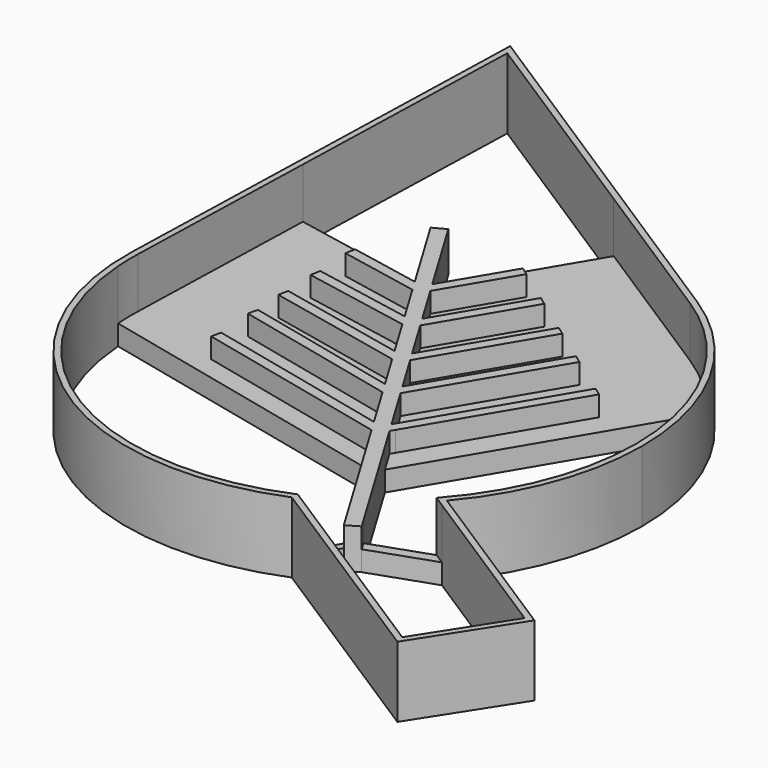
from build123d import *

# Parameters (mm, degrees)
F1_DEPTH = 8.89
F2_DEPTH = 5.08
F3_DEPTH = 2.54


with BuildPart() as f1:
    # F0 (on Top) → F1 (new body)
    with BuildSketch(Plane.XY):
        with BuildLine():
            Line((21.332066, 26.463705), (-27.061316, 57.515545))
            Line((-27.061316, 57.515545), (-28.724159, 0.040585))
            ThreePointArc((-28.724159, 0.040585), (-14.685947, -27.662523), (16.197077, -30.944668))
            Line((16.197077, -30.944668), (43.515381, -48.467725))
            Line((43.515381, -48.467725), (51.195109, -36.495092))
            Line((51.195109, -36.495092), (28.540187, -21.963315))
            ThreePointArc((28.540187, -21.963315), (34.288342, -12.121049), (36.286243, -0.899646))
            ThreePointArc((36.286243, -0.899646), (32.30379, 14.691861), (21.332066, 26.463705))
        make_face()
        with BuildLine():
            Line((-27.236827, 25.100127), (-26.338607, 56.146439))
            Line((-26.338607, 56.146439), (1.208299, 38.470838))
            Line((1.208299, 38.470838), (20.920554, 25.822377))
            ThreePointArc((20.920554, 25.822377), (25.459016, 22.291583), (29.286224, 18.000124))
            ThreePointArc((29.286224, 18.000124), (33.924433, 9.051663), (35.524243, -0.899646))
            ThreePointArc((35.524243, -0.899646), (33.419565, -12.267027), (27.384567, -22.127343))
            Line((27.384567, -22.127343), (28.75755, -23.008029))
            Line((28.75755, -23.008029), (50.142303, -36.725069))
            Line((50.142303, -36.725069), (43.285403, -47.41492))
            Line((43.285403, -47.41492), (17.059054, -30.592287))
            Line((17.059054, -30.592287), (16.271061, -30.086836))
            ThreePointArc((16.271061, -30.086836), (-12.750558, -28.010409), (-27.894731, -3.166497))
            ThreePointArc((-27.894731, -3.166497), (-27.968577, -1.574824), (-27.962478, 0.018549))
            Line((-27.962478, 0.018549), (-27.236827, 25.100127))
        make_face(mode=Mode.SUBTRACT)
    extrude(amount=F1_DEPTH)



with BuildPart() as f2:
    # F0 (on Top) → F2 (new body)
    with BuildSketch(Plane.XY):
        Polygon((-13.605105, 28.150606), (-9.713301, 21.672324), (-7.614988, 18.17948), (-6.73406, 16.713091), (-3.785167, 11.804375), (-2.909715, 10.347101), (0.050701, 5.419203), (0.94598, 3.928926), (3.701448, -0.657816), (4.610738, -2.171416), (7.88597, -7.623355), (8.79526, -9.136955), (10.545028, -12.049613), (18.781333, -25.759736), (19.331383, -26.675345), (20.855503, -25.759736), (20.180433, -24.636017), (12.044667, -11.093252), (10.296888, -8.183906), (9.553734, -6.946853), (6.119241, -1.22981), (5.376086, 0.007243), (2.464367, 4.85408), (1.721212, 6.091132), (-1.380529, 11.254279), (-2.123684, 12.491331), (-5.198242, 17.609229), (-5.941397, 18.846282), (-8.196821, 22.600652), (-12.036798, 28.992664), align=None)
        Polygon((-1.081142, 27.047468), (-5.941397, 18.846282), (-5.198242, 17.609229), (-0.046492, 26.302285), align=None)
        Polygon((4.234035, 23.219336), (-2.123684, 12.491331), (-1.380529, 11.254279), (5.268685, 22.474153), align=None)
        Polygon((9.587057, 19.363947), (1.721212, 6.091132), (2.464367, 4.85408), (10.621708, 18.618764), align=None)
        Polygon((5.376086, 0.007243), (6.119241, -1.22981), (15.710174, 14.953916), (14.675524, 15.699099), align=None)
        Polygon((9.553734, -6.946853), (10.296888, -8.183906), (10.629086, -7.623355), (21.526467, 10.764868), (20.491817, 11.510051), align=None)
        Polygon((-6.73406, 16.713091), (-7.614988, 18.17948), (-16.500566, 19.917602), (-16.744372, 18.671223), (-6.954169, 16.756147), align=None)
        Polygon((-2.909715, 10.347101), (-3.785167, 11.804375), (-16.291279, 14.160487), (-16.526407, 12.912442), align=None)
        Polygon((0.94598, 3.928926), (0.050701, 5.419203), (-16.099113, 8.874321), (-16.364806, 7.632425), (0.701064, 3.981324), align=None)
        Polygon((4.342513, -2.109431), (4.610738, -2.171416), (3.701448, -0.657816), (-15.917408, 3.875942), (-16.203358, 2.638553), align=None)
        Polygon((-15.983448, -3.410797), (8.79526, -9.136955), (7.88597, -7.623355), (-15.697497, -2.173408), align=None)
    extrude(amount=F2_DEPTH)


with BuildPart() as f1_1:
    add(f1.part)

    add(f2.part)  # F3 merges F2
    # F0 (on Top) → F3 (join)
    with BuildSketch(Plane.XY):
        with BuildLine():
            Line((20.920554, 25.822377), (1.208299, 38.470838))
            Line((1.208299, 38.470838), (-8.196821, 22.600652))
            Line((-8.196821, 22.600652), (-5.941397, 18.846282))
            Line((-5.941397, 18.846282), (-1.081142, 27.047468))
            Line((-1.081142, 27.047468), (-0.046492, 26.302285))
            Line((-0.046492, 26.302285), (-5.198242, 17.609229))
            Line((-5.198242, 17.609229), (-2.123684, 12.491331))
            Line((-2.123684, 12.491331), (4.234035, 23.219336))
            Line((4.234035, 23.219336), (5.268685, 22.474153))
            Line((5.268685, 22.474153), (-1.380529, 11.254279))
            Line((-1.380529, 11.254279), (1.721212, 6.091132))
            Line((1.721212, 6.091132), (9.587057, 19.363947))
            Line((9.587057, 19.363947), (10.621708, 18.618764))
            Line((10.621708, 18.618764), (2.464367, 4.85408))
            Line((2.464367, 4.85408), (5.376086, 0.007243))
            Line((5.376086, 0.007243), (14.675524, 15.699099))
            Line((14.675524, 15.699099), (15.710174, 14.953916))
            Line((15.710174, 14.953916), (6.119241, -1.22981))
            Line((6.119241, -1.22981), (9.553734, -6.946853))
            Line((9.553734, -6.946853), (20.491817, 11.510051))
            Line((20.491817, 11.510051), (21.526467, 10.764868))
            Line((21.526467, 10.764868), (10.629086, -7.623355))
            Line((10.629086, -7.623355), (10.296888, -8.183906))
            Line((10.296888, -8.183906), (12.044667, -11.093252))
            Line((12.044667, -11.093252), (29.286224, 18.000124))
            ThreePointArc((29.286224, 18.000124), (25.459016, 22.291583), (20.920554, 25.822377))
        make_face()
        with BuildLine():
            Line((-9.713301, 21.672324), (-27.236827, 25.100127))
            Line((-27.236827, 25.100127), (-27.962478, 0.018549))
            ThreePointArc((-27.962478, 0.018549), (-27.968577, -1.574824), (-27.894731, -3.166497))
            Line((-27.894731, -3.166497), (10.545028, -12.049613))
            Line((10.545028, -12.049613), (8.79526, -9.136955))
            Line((8.79526, -9.136955), (-15.983448, -3.410797))
            Line((-15.983448, -3.410797), (-15.697497, -2.173408))
            Line((-15.697497, -2.173408), (7.88597, -7.623355))
            Line((7.88597, -7.623355), (4.610738, -2.171416))
            Line((4.610738, -2.171416), (4.342513, -2.109431))
            Line((4.342513, -2.109431), (-16.203358, 2.638553))
            Line((-16.203358, 2.638553), (-15.917408, 3.875942))
            Line((-15.917408, 3.875942), (3.701448, -0.657816))
            Line((3.701448, -0.657816), (0.94598, 3.928926))
            Line((0.94598, 3.928926), (0.701064, 3.981324))
            Line((0.701064, 3.981324), (-16.364806, 7.632425))
            Line((-16.364806, 7.632425), (-16.099113, 8.874321))
            Line((-16.099113, 8.874321), (0.050701, 5.419203))
            Line((0.050701, 5.419203), (-2.909715, 10.347101))
            Line((-2.909715, 10.347101), (-16.526407, 12.912442))
            Line((-16.526407, 12.912442), (-16.291279, 14.160487))
            Line((-16.291279, 14.160487), (-3.785167, 11.804375))
            Line((-3.785167, 11.804375), (-6.73406, 16.713091))
            Line((-6.73406, 16.713091), (-6.954169, 16.756147))
            Line((-6.954169, 16.756147), (-16.744372, 18.671223))
            Line((-16.744372, 18.671223), (-16.500566, 19.917602))
            Line((-16.500566, 19.917602), (-7.614988, 18.17948))
            Line((-7.614988, 18.17948), (-9.713301, 21.672324))
        make_face()
        Polygon((28.75755, -23.008029), (27.384567, -22.127343), (20.180433, -24.636017), (20.855503, -25.759736), align=None)
        Polygon((18.781333, -25.759736), (16.271061, -30.086836), (17.059054, -30.592287), (19.331383, -26.675345), align=None)
    extrude(amount=F3_DEPTH)


solid = f1_1.part
